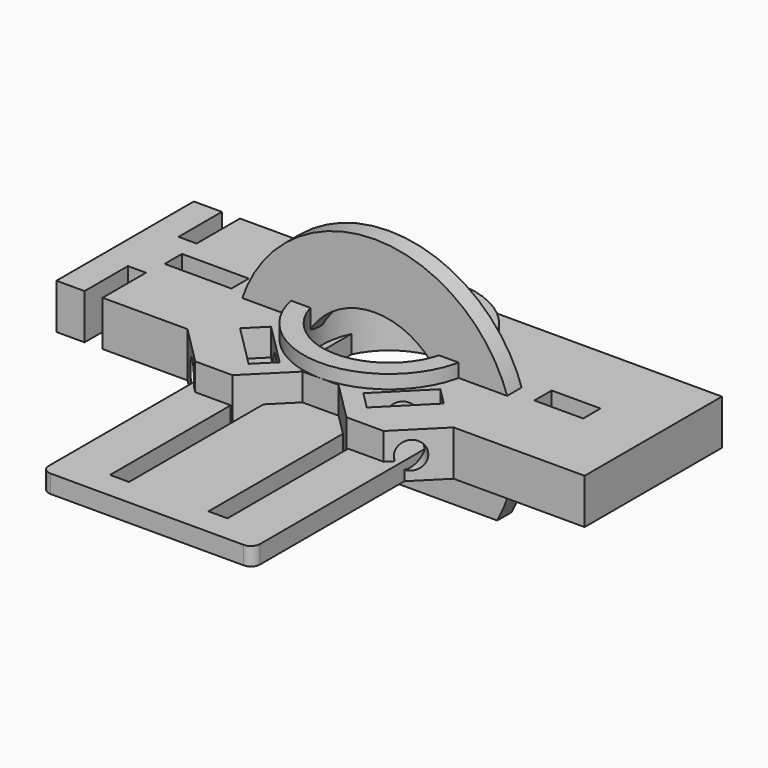
from build123d import *

# Parameters (mm, degrees)
SKETCH_R           = 1.5
SKETCH_W           = 2.1
SKETCH_H           = 24
PAD_DEPTH          = 2
FILLET_R           = 1
SKETCH001_R        = 7.4
SKETCH001_W        = 5.4
SKETCH001_H        = 2.4
SKETCH001_W_2      = 7.4
PAD001_DEPTH       = 5
SKETCH002_R        = 9.5
SKETCH002_R_2      = 7.4
PAD002_DEPTH       = 6.5
SKETCH003_R        = 1.5
POCKET_DEPTH       = 156.961778
POLARPATTERN_COUNT = 2
POLARPATTERN_ANGLE = 90
SKETCH004_R        = 1.05
POCKET001_DEPTH    = 15
PAD003_DEPTH       = 2


with BuildPart() as obj1:
    # Sketch → Pad (new body)
    with BuildSketch(Plane.XY):
        Polygon((-11.7, 3.5), (-6.7, 3.5), (-6.7, -3.5), (6.7, -3.5), (6.7, 3.5), (11.7, 3.5), (11.7, -3.5), (11.7, -33.5), (-11.7, -33.5), (-11.7, -3.5), align=None)
        with Locations((-9.2, 0)):
            Circle(SKETCH_R, mode=Mode.SUBTRACT)
        with Locations((9.2, 0)):
            Circle(SKETCH_R, mode=Mode.SUBTRACT)
        with Locations((-5.45, -18.5)):
            Rectangle(SKETCH_W, SKETCH_H, mode=Mode.SUBTRACT)
        with Locations((5.45, -18.5)):
            Rectangle(SKETCH_W, SKETCH_H, mode=Mode.SUBTRACT)
    extrude(amount=PAD_DEPTH)

    # Fillet
    fillet_edges = [obj1.edges().sort_by_distance(p)[0] for p in [
        (-11.7, -33.5, 1),
        (11.7, -33.5, 1),
    ]]
    fillet(fillet_edges, radius=FILLET_R)


with BuildPart() as obj2:
    # Sketch001 → Pad001 (new body)
    with BuildSketch(Plane.XY):
        Polygon((29.23, 9.5), (29.23, -9.5), (14.727922, -9.5), (10.427922, -13.8), (6.3, -13.8), (2, -9.5), (-2, -9.5), (-6.3, -13.8), (-10.427922, -13.8), (-14.727922, -9.5), (-24.12, -9.5), (-24.12, -3.5), (-26.12, -3.5), (-26.12, -9.5), (-29.23, -9.5), (-29.23, 9.5), (-26.12, 9.5), (-26.12, 3.5), (-24.12, 3.5), (-24.12, 9.5), align=None)
        Circle(SKETCH001_R, mode=Mode.SUBTRACT)
        Polygon((4.631549, -9.369165), (9.369165, -4.631549), (11.278353, -6.540738), (6.540738, -11.278353), align=None, mode=Mode.SUBTRACT)
        Polygon((-9.369165, -4.631549), (-4.631549, -9.369165), (-6.540738, -11.278353), (-11.278353, -6.540738), align=None, mode=Mode.SUBTRACT)
        with Locations((19.73, 0)):
            Rectangle(SKETCH001_W, SKETCH001_H, mode=Mode.SUBTRACT)
        with Locations((-20.2, 0)):
            Rectangle(SKETCH001_W_2, SKETCH001_H, mode=Mode.SUBTRACT)
    extrude(amount=PAD001_DEPTH)

    # Sketch002 → Pad002 (join)
    with BuildSketch(Plane.XY):
        Circle(SKETCH002_R)
        Circle(SKETCH002_R_2, mode=Mode.SUBTRACT)
    extrude(amount=PAD002_DEPTH)

    # Sketch003 → Pocket (cut, through all)
    with BuildSketch(Plane(origin=(0, 0, 0), x_dir=(0.707107, 0.707107, 0), z_dir=(0.707107, -0.707107, 0))):
        with Locations((0, 2.5)):
            Circle(SKETCH003_R)
    pocket = extrude(amount=POCKET_DEPTH, mode=Mode.SUBTRACT)

    # PolarPattern: Pocket ×2 about axis
    polarpattern_axis = Axis((0, 0, 0), (0, 0, -1))
    for i in range(1, POLARPATTERN_COUNT):
        add(pocket.rotate(polarpattern_axis, i * POLARPATTERN_ANGLE / (POLARPATTERN_COUNT - 1)), mode=Mode.SUBTRACT)

    # Sketch004 → Pocket001 (cut)
    with BuildSketch(Plane.YZ.offset(-30)):
        with Locations((-11.65, 2.5)):
            Circle(SKETCH004_R)
        with Locations((11.65, 2.5)):
            Circle(SKETCH004_R)
    extrude(amount=POCKET001_DEPTH, mode=Mode.SUBTRACT)


with BuildPart() as probe_holder_rings:
    # Sketch005 → Pad003 (new body)
    with BuildSketch(Plane.XZ):
        with BuildLine():
            ThreePointArc((13.56466, -7.5), (0, 15.5), (-13.56466, -7.5))
            Line((13.56466, -7.5), (-13.56466, -7.5))
        make_face()
        with BuildLine():
            ThreePointArc((8.310048, 1), (0, 8.37), (-8.310048, 1))
            Line((-11.17, 1), (-8.310048, 1))
            Line((-11.17, -1), (-11.17, 1))
            Line((-8.310048, -1), (-11.17, -1))
            ThreePointArc((-8.310048, -1), (-7.661481, -3.370254), (-6.352511, -5.45))
            Line((-6.352511, -5.45), (6.352511, -5.45))
            ThreePointArc((6.352511, -5.45), (7.661481, -3.370254), (8.310048, -1))
            Line((8.310048, -1), (11.17, -1))
            Line((11.17, -1), (11.17, 1))
            Line((11.17, 1), (8.310048, 1))
        make_face(mode=Mode.SUBTRACT)
    extrude(amount=PAD003_DEPTH)


solid = Compound([obj1.part, obj2.part, probe_holder_rings.part])
